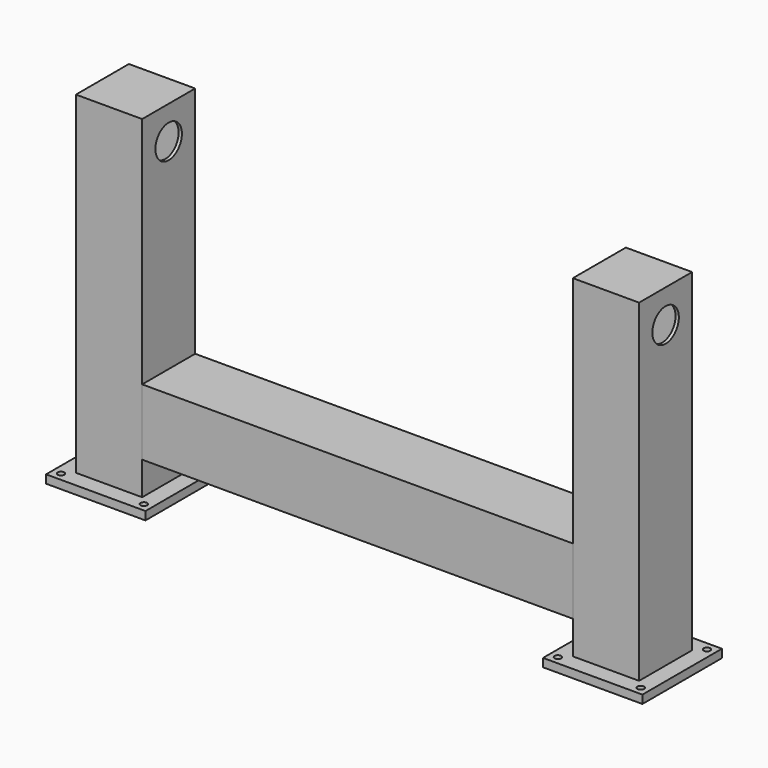
from build123d import *

# Parameters (mm, degrees)
F0_W      = 300
F0_H      = 300
F0_R      = 10
F1_DEPTH  = 25
F2_W      = 200
F2_H      = 200
F2_W_2    = 180
F2_H_2    = 180
F3_DEPTH  = 1000
F4_W      = 200
F4_H      = 200
F4_W_2    = 180
F4_H_2    = 180
F5_DEPTH  = 1300
F6_W      = 200
F6_H      = 200
F7_DEPTH  = 5
F8_W      = 200
F8_H      = 200
F9_DEPTH  = 5
F10_R     = 50
F11_DEPTH = 1750.001


with BuildPart() as f1:
    # F0 (on Top) → F1 (new body)
    with BuildSketch(Plane.XY):
        with Locations((-750, 0)):
            Rectangle(F0_W, F0_H)
        with Locations((-875, -125)):
            Circle(F0_R, mode=Mode.SUBTRACT)
        with Locations((-625, -125)):
            Circle(F0_R, mode=Mode.SUBTRACT)
        with Locations((-875, 125)):
            Circle(F0_R, mode=Mode.SUBTRACT)
        with Locations((-625, 125)):
            Circle(F0_R, mode=Mode.SUBTRACT)
    extrude(amount=F1_DEPTH)


with BuildPart() as f1b:
    # F0 (on Top) → F1, piece 2 (new body)
    with BuildSketch(Plane.XY):
        with Locations((750, 0)):
            Rectangle(F0_W, F0_H)
        with Locations((625, -125)):
            Circle(F0_R, mode=Mode.SUBTRACT)
        with Locations((875, -125)):
            Circle(F0_R, mode=Mode.SUBTRACT)
        with Locations((625, 125)):
            Circle(F0_R, mode=Mode.SUBTRACT)
        with Locations((875, 125)):
            Circle(F0_R, mode=Mode.SUBTRACT)
    extrude(amount=F1_DEPTH)


with BuildPart() as f3:
    # F2 (on face) → F3 (new body)
    with BuildSketch(Plane.XY.offset(25)):
        with Locations((-750, 0)):
            Rectangle(F2_W, F2_H)
        with Locations((-750, 0)):
            Rectangle(F2_W_2, F2_H_2, mode=Mode.SUBTRACT)
    extrude(amount=F3_DEPTH)

    # F6 (on face) → F7 (join)
    with BuildSketch(Plane.XY.offset(1025)):
        with Locations((-750, 0)):
            Rectangle(F6_W, F6_H)
    extrude(amount=F7_DEPTH)


with BuildPart() as f3b:
    # F2 (on face) → F3, piece 2 (new body)
    with BuildSketch(Plane.XY.offset(25)):
        with Locations((750, 0)):
            Rectangle(F2_W, F2_H)
        with Locations((750, 0)):
            Rectangle(F2_W_2, F2_H_2, mode=Mode.SUBTRACT)
    extrude(amount=F3_DEPTH)

    # F8 (on face) → F9 (join)
    with BuildSketch(Plane.XY.offset(1025)):
        with Locations((750, 0)):
            Rectangle(F8_W, F8_H)
    extrude(amount=F9_DEPTH)


with BuildPart() as f5:
    # F4 (on face) → F5 (new body, through all)
    with BuildSketch(Plane.YZ.offset(-650)):
        with Locations((0, 225)):
            Rectangle(F4_W, F4_H)
        with Locations((0, 225)):
            Rectangle(F4_W_2, F4_H_2, mode=Mode.SUBTRACT)
        with Locations((0, 225)):
            Rectangle(F4_W, F4_H)
        with Locations((0, 225)):
            Rectangle(F4_W_2, F4_H_2, mode=Mode.SUBTRACT)
    extrude(amount=F5_DEPTH)


with BuildPart() as f11_tool:
    # F10 (on face) → F11 (new body, through all)
    with BuildSketch(Plane(origin=(-850, 0, 0), x_dir=(0, -1, 0), z_dir=(-1, 0, 0))):
        with Locations((0, 930)):
            Circle(F10_R)
    extrude(amount=-F11_DEPTH)


with BuildPart() as f3_1:
    add(f3.part)

    # F11: cut by f11_tool
    add(f11_tool.part, mode=Mode.SUBTRACT)


with BuildPart() as f3b_1:
    add(f3b.part)

    # F11: cut by f11_tool
    add(f11_tool.part, mode=Mode.SUBTRACT)


solid = Compound([f1.part, f1b.part, f5.part, f3_1.part, f3b_1.part])
